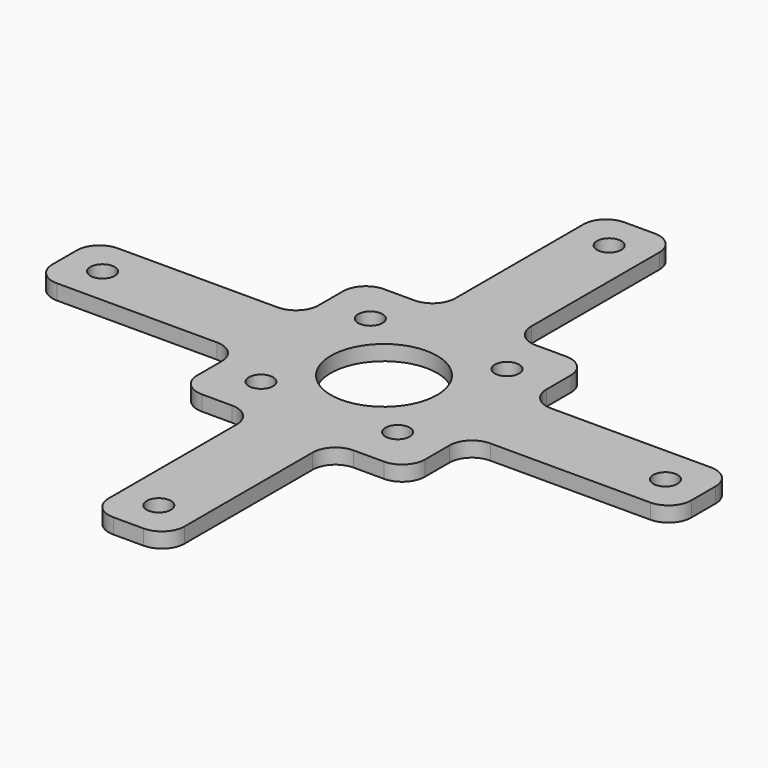
from build123d import *

# Parameters (mm, degrees)
F0_R     = 1.6
F0_R_2   = 7
F1_DEPTH = 2


with BuildPart() as f1:
    # F0 (on Top) → F1 (new body)
    with BuildSketch(Plane.XY):
        with BuildLine():
            ThreePointArc((-15, -12), (-14.12132, -14.12132), (-12, -15))
            Line((-12, -15), (-8, -15))
            ThreePointArc((-8, -15), (-5.87868, -15.87868), (-5, -18))
            Line((-5, -18), (-5, -39.076037))
            ThreePointArc((-5, -39.076037), (-4.12132, -41.197357), (-2, -42.076037))
            Line((-2, -42.076037), (2, -42.076037))
            ThreePointArc((2, -42.076037), (4.12132, -41.197357), (5, -39.076037))
            Line((5, -39.076037), (5, -18))
            ThreePointArc((5, -18), (5.87868, -15.87868), (8, -15))
            Line((8, -15), (12, -15))
            ThreePointArc((12, -15), (14.12132, -14.12132), (15, -12))
            Line((15, -12), (15, -8))
            ThreePointArc((15, -8), (15.87868, -5.87868), (18, -5))
            Line((18, -5), (39.076037, -5))
            ThreePointArc((39.076037, -5), (41.197357, -4.12132), (42.076037, -2))
            Line((42.076037, -2), (42.076037, 2))
            ThreePointArc((42.076037, 2), (41.197357, 4.12132), (39.076037, 5))
            Line((39.076037, 5), (18, 5))
            ThreePointArc((18, 5), (15.87868, 5.87868), (15, 8))
            Line((15, 8), (15, 12))
            ThreePointArc((15, 12), (14.12132, 14.12132), (12, 15))
            Line((12, 15), (8, 15))
            ThreePointArc((8, 15), (5.87868, 15.87868), (5, 18))
            Line((5, 18), (5, 39.076037))
            ThreePointArc((5, 39.076037), (4.12132, 41.197357), (2, 42.076037))
            Line((2, 42.076037), (-2, 42.076037))
            ThreePointArc((-2, 42.076037), (-4.12132, 41.197357), (-5, 39.076037))
            Line((-5, 39.076037), (-5, 18))
            ThreePointArc((-5, 18), (-5.87868, 15.87868), (-8, 15))
            Line((-8, 15), (-12, 15))
            ThreePointArc((-12, 15), (-14.12132, 14.12132), (-15, 12))
            Line((-15, 12), (-15, 8))
            ThreePointArc((-15, 8), (-15.87868, 5.87868), (-18, 5))
            Line((-18, 5), (-39.076037, 5))
            ThreePointArc((-39.076037, 5), (-41.197357, 4.12132), (-42.076037, 2))
            Line((-42.076037, 2), (-42.076037, -2))
            ThreePointArc((-42.076037, -2), (-41.197357, -4.12132), (-39.076037, -5))
            Line((-39.076037, -5), (-18, -5))
            ThreePointArc((-18, -5), (-15.87868, -5.87868), (-15, -8))
            Line((-15, -8), (-15, -12))
        make_face()
        with Locations((0, -37.076037)):
            Circle(F0_R, mode=Mode.SUBTRACT)
        with Locations((-37.076037, 0)):
            Circle(F0_R, mode=Mode.SUBTRACT)
        with Locations((-9, -9)):
            Circle(F0_R, mode=Mode.SUBTRACT)
        Circle(F0_R_2, mode=Mode.SUBTRACT)
        with Locations((9, -9)):
            Circle(F0_R, mode=Mode.SUBTRACT)
        with Locations((37.076037, 0)):
            Circle(F0_R, mode=Mode.SUBTRACT)
        with Locations((-9, 9)):
            Circle(F0_R, mode=Mode.SUBTRACT)
        with Locations((0, 37.076037)):
            Circle(F0_R, mode=Mode.SUBTRACT)
        with Locations((9, 9)):
            Circle(F0_R, mode=Mode.SUBTRACT)
    extrude(amount=F1_DEPTH)


solid = f1.part
